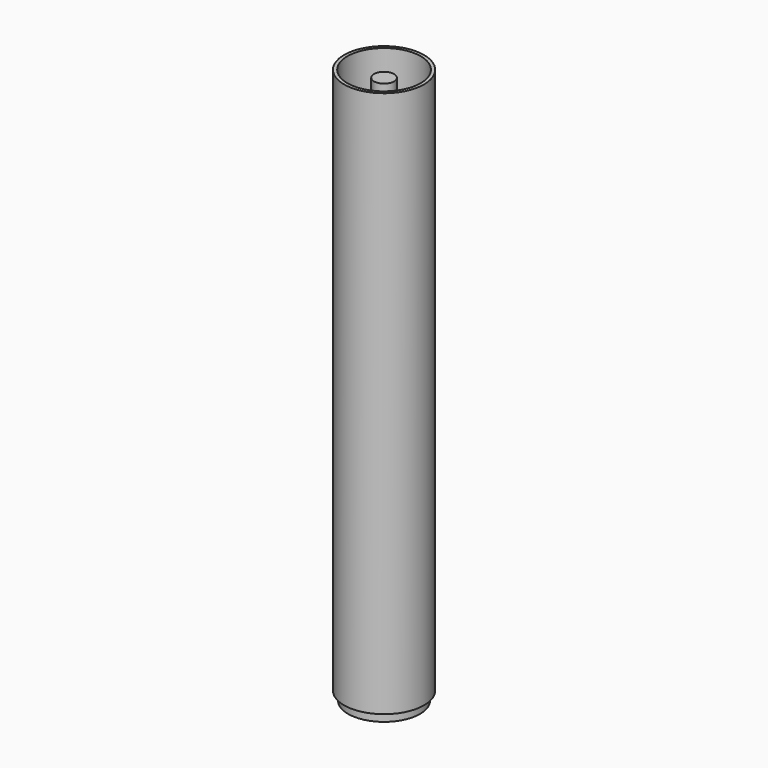
from build123d import *

# Parameters (mm, degrees)
F0_R     = 9.525
F0_R_2   = 8.7376
F1_DEPTH = 65.1891


with BuildPart() as f1:
    # F0 (on Top) → F1 (new body, symmetric)
    with BuildSketch(Plane.XY):
        Circle(F0_R)
        Circle(F0_R_2, mode=Mode.SUBTRACT)
    extrude(amount=F1_DEPTH, both=True)


with BuildPart() as f3:
    # F2 (on Front) → F3 (revolve)
    with BuildSketch(Plane.XZ):
        Polygon((0, 63.5), (0, -67.31), (8.574672, -67.31), (8.574672, -63.5), (2.389388, -63.5), (2.389388, 63.5), align=None)
    revolve(axis=Axis((0, 0, -1.905), (0, 0, 1)))


solid = Compound([f1.part, f3.part])
